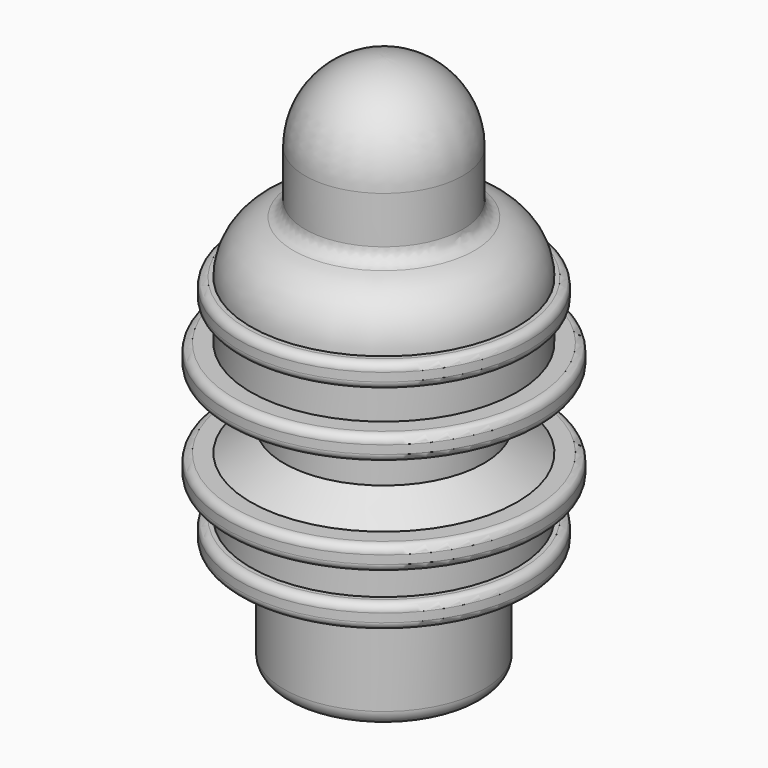
from build123d import *

# Parameters (mm, degrees)
F2_R = 1.3
F3_R = 2.5


with BuildPart() as f1:
    # F0 (on Front) → F1 (revolve)
    with BuildSketch(Plane.XZ):
        with BuildLine():
            Line((13, -23), (13, -13))
            ThreePointArc((13, -13), (9.192388, -3.807612), (0, 0))
            Line((0, 0), (0, -89))
            Line((0, -89), (16.5, -89))
            Line((16.5, -89), (16.5, -71))
            Line((16.5, -71), (24, -71))
            Line((24, -71), (24, -67))
            Line((24, -67), (22, -67))
            Line((22, -67), (22, -61.5))
            Line((22, -61.5), (26, -61.5))
            Line((26, -61.5), (26, -57.5))
            Line((26, -57.5), (22, -57.5))
            Line((22, -57.5), (16.5, -53.648859))
            Line((16.5, -53.648859), (16.5, -49.351141))
            Line((16.5, -49.351141), (22, -45.5))
            Line((22, -45.5), (26, -45.5))
            Line((26, -45.5), (26, -41.5))
            Line((26, -41.5), (22, -41.5))
            Line((22, -41.5), (22, -36))
            Line((22, -36), (24, -36))
            Line((24, -36), (24, -32))
            Line((24, -32), (22, -32))
            ThreePointArc((22, -32), (19.363961, -25.636039), (13, -23))
        make_face()
    revolve(axis=Axis((0, 0, -44.5), (0, 0, 1)))

    # F2
    f2_edges = [f1.edges().sort_by_distance(p)[0] for p in [
        (-26, 0, -61.5),
        (-24, 0, -67),
        (-26, 0, -57.5),
        (-26, 0, -45.5),
        (-26, 0, -41.5),
        (-24, 0, -36),
        (-24, 0, -32),
        (-24, 0, -71),
    ]]
    fillet(f2_edges, radius=F2_R)

    # F3
    f3_edges = [f1.edges().sort_by_distance(p)[0] for p in [
        (-16.5, 0, -89),
        (-13, 0, -23),
    ]]
    fillet(f3_edges, radius=F3_R)


solid = f1.part
